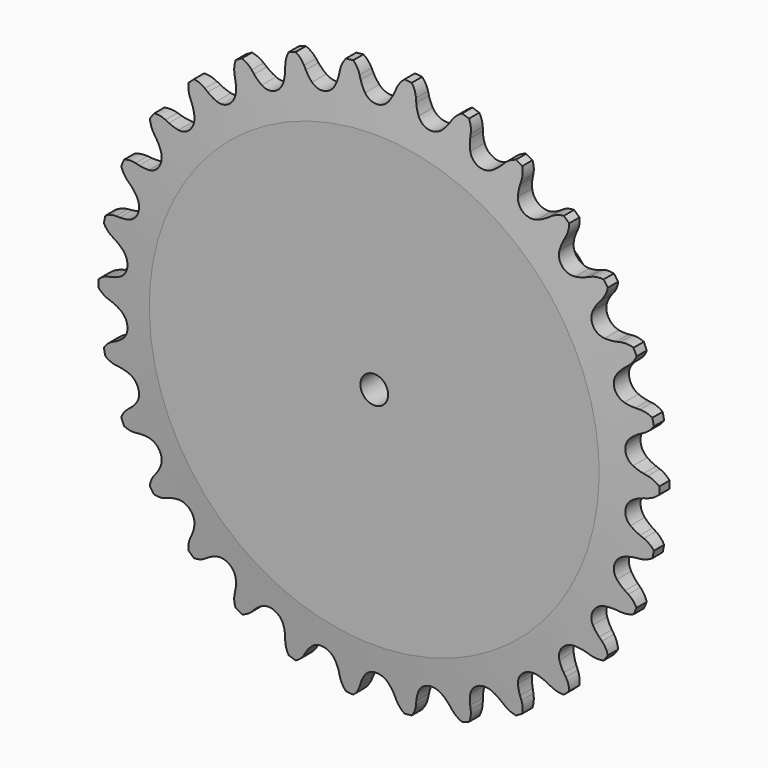
from build123d import *

# Parameters (mm, degrees)
F0_W     = 9.906
F0_H     = 17.4625
F0_W_2   = 2.794
F0_H_2   = 13.0683
F2_R     = 1.5875
F3_SIZE  = 0.79375
F4_SIZE2 = 6.35
F4_SIZE  = 0.6604
F6_DEPTH = 25.4
F7_R     = 1.4112891739
F8_DEPTH = 25.4


with BuildPart() as f1:
    # F0 (on Right) → F1 (revolve)
    with BuildSketch(Plane.YZ):
        with Locations((7.747, 10.31875)):
            Rectangle(F0_W, F0_H)
        with Locations((1.397, 10.31875)):
            Rectangle(F0_W_2, F0_H)
        with Locations((1.397, 25.58415)):
            Rectangle(F0_W_2, F0_H_2)
    revolve(axis=Axis((0, 11.2999993301, 0), (0, 1, 0)))

    # F2
    f2_edges = [f1.edges().sort_by_distance(p)[0] for p in [
        (0, 2.794, -19.05),
    ]]
    fillet(f2_edges, radius=F2_R)

    # F3
    f3_edges = [f1.edges().sort_by_distance(p)[0] for p in [
        (0, 12.7, -19.05),
    ]]
    chamfer(f3_edges, length=F3_SIZE)

    # F4
    f4_edges = [f1.edges().sort_by_distance(p)[0] for p in [
        (0, 0, -32.1183),
        (0, 2.794, -32.1183),
    ]]
    f4_side = f1.faces().sort_by_distance((0, 1.397, -32.1183))[0]
    chamfer(f4_edges, length=F4_SIZE, length2=F4_SIZE2, reference=f4_side)

    # F5 (on face) → F6 (intersect)
    with BuildSketch(Plane.XZ):
        with BuildLine():
            ThreePointArc((-1.3560751097, 29.3527141088), (-1.6882601607, 29.8648861579), (-1.9452878921, 30.4186043725))
            Line((-1.9452878921, 30.4186043725), (-2.1066705887, 30.8419620236))
            ThreePointArc((-2.1066705887, 30.8419620236), (-2.6161236685, 31.6758330036), (-3.3917376991, 32.270228602))
            ThreePointArc((-3.3917376991, 32.270228602), (-4.0268209083, 31.527562749), (-4.3517696906, 30.6059925994))
            Line((-4.3517696906, 30.6059925994), (-4.421604783, 30.1583329794))
            ThreePointArc((-4.421604783, 30.1583329794), (-4.5578913515, 29.5632757661), (-4.7763308055, 28.9932307495))
            ThreePointArc((-4.7763308055, 28.9932307495), (-5.9622003929, 28.0499474872), (-7.4292140354, 28.4293430117))
            ThreePointArc((-7.4292140354, 28.4293430117), (-7.8606266028, 28.861257717), (-8.2271621518, 29.3494367899))
            Line((-8.2271621518, 29.3494367899), (-8.4730392543, 29.7299897112))
            ThreePointArc((-8.4730392543, 29.7299897112), (-9.1447310874, 30.4397173584), (-10.0269778844, 30.8598647624))
            ThreePointArc((-10.0269778844, 30.8598647624), (-10.4937740886, 30.0013867163), (-10.6200167523, 29.0323944347))
            Line((-10.6200167523, 29.0323944347), (-10.5952521119, 28.5799977194))
            ThreePointArc((-10.5952521119, 28.5799977194), (-10.6048411405, 27.9696083629), (-10.6999881451, 27.3666040815))
            ThreePointArc((-10.6999881451, 27.3666040815), (-11.6638240188, 26.1973776706), (-13.1776606585, 26.2634732057))
            ThreePointArc((-13.1776606585, 26.2634732057), (-13.6894459428, 26.5962538221), (-14.1494699472, 26.9975579853))
            Line((-14.1494699472, 26.9975579853), (-14.4690954464, 27.3186741881))
            ThreePointArc((-14.4690954464, 27.3186741881), (-15.2736698765, 27.8732399987), (-16.2239910214, 28.1007767505))
            ThreePointArc((-16.2239910214, 28.1007767505), (-16.5020989864, 27.1640061214), (-16.4241181214, 26.1899413204))
            Line((-16.4241181214, 26.1899413204), (-16.3058360818, 25.752579417))
            ThreePointArc((-16.3058360818, 25.752579417), (-16.188308484, 25.1535348613), (-16.1560046585, 24.5439254956))
            ThreePointArc((-16.1560046585, 24.5439254956), (-16.8556825659, 23.1998567409), (-18.3501802773, 22.9497635946))
            ThreePointArc((-18.3501802773, 22.9497635946), (-18.9199708059, 23.1688660123), (-19.4533780091, 23.4657563481))
            Line((-19.4533780091, 23.4657563481), (-19.832782737, 23.7134015135))
            ThreePointArc((-19.832782737, 23.7134015135), (-20.7350760008, 24.0885683004), (-21.7119378994, 24.1135499522))
            ThreePointArc((-21.7119378994, 24.1135499522), (-21.7892029727, 23.1394281117), (-21.510406717, 22.2028620971))
            Line((-21.510406717, 22.2028620971), (-21.3037767709, 21.7996498195))
            ThreePointArc((-21.3037767709, 21.7996498195), (-21.0642690667, 21.2381311862), (-20.9059262433, 20.6485595907))
            ThreePointArc((-20.9059262433, 20.6485595907), (-21.3108669023, 19.1883907463), (-22.7207089641, 18.6330391892))
            ThreePointArc((-22.7207089641, 18.6330391892), (-23.3236021567, 18.7288875811), (-23.9070801045, 18.9083885573))
            Line((-23.9070801045, 18.9083885573), (-24.3296822538, 19.0717394031))
            ThreePointArc((-24.3296822538, 19.0717394031), (-25.2902598059, 19.2511105776), (-26.2509689057, 19.0724453114))
            ThreePointArc((-26.2509689057, 19.0724453114), (-26.1240142329, 18.1035460581), (-25.6565873206, 17.245411259))
            Line((-25.6565873206, 17.245411259), (-25.3706401882, 16.8939709185))
            ThreePointArc((-25.3706401882, 16.8939709185), (-25.0196200135, 16.3945192663), (-24.7421585334, 15.8507525489))
            ThreePointArc((-24.7421585334, 15.8507525489), (-24.8346640942, 14.3383), (-26.0982336431, 13.50196156))
            ThreePointArc((-26.0982336431, 13.50196156), (-26.7078801742, 13.4703668915), (-27.3159280803, 13.524633454))
            Line((-27.3159280803, 13.524633454), (-27.7632579093, 13.5965507646))
            ThreePointArc((-27.7632579093, 13.5965507646), (-28.7401379014, 13.5722869455), (-29.6427066048, 13.1977832906))
            ThreePointArc((-29.6427066048, 13.1977832906), (-29.3170807142, 12.2764521714), (-28.6814519444, 11.5342531962))
            Line((-28.6814519444, 11.5342531962), (-28.3286848875, 11.2499444221))
            ThreePointArc((-28.3286848875, 11.2499444221), (-27.8814935083, 10.8343881849), (-27.4970397696, 10.3601915603))
            ThreePointArc((-27.4970397696, 10.3601915603), (-27.2730672952, 8.8615567409), (-28.3351402787, 7.780783421))
            ThreePointArc((-28.3351402787, 7.780783421), (-28.9248956694, 7.6231265308), (-29.5309389227, 7.5497869704))
            Line((-29.5309389227, 7.5497869704), (-29.9834459713, 7.5271276141))
            ThreePointArc((-29.9834459713, 7.5271276141), (-30.9339340601, 7.3002892468), (-31.7389157837, 6.7463148101))
            ThreePointArc((-31.7389157837, 6.7463148101), (-31.2288500893, 5.9128184159), (-30.4527994893, 5.3189929213))
            Line((-30.4527994893, 5.3189929213), (-30.048630121, 5.1142413713))
            ThreePointArc((-30.048630121, 5.1142413713), (-29.5248119465, 4.8007423507), (-29.0501684224, 4.4168404869))
            ThreePointArc((-29.0501684224, 4.4168404869), (-28.5195065847, 2.9975209297), (-29.333665317, 1.7195477102))
            ThreePointArc((-29.333665317, 1.7195477102), (-29.8777544269, 1.4427189608), (-30.455306029, 1.2449785683))
            Line((-30.455306029, 1.2449785683), (-30.8932135678, 1.1287328677))
            ThreePointArc((-30.8932135678, 1.1287328677), (-31.7757688629, 0.7092338773), (-32.4479820427, 0))
            ThreePointArc((-32.4479820427, 0), (-31.7757688629, -0.7092338773), (-30.8932135678, -1.1287328677))
            Line((-30.8932135678, -1.1287328677), (-30.455306029, -1.2449785683))
            ThreePointArc((-30.455306029, -1.2449785683), (-29.8777544269, -1.4427189608), (-29.333665317, -1.7195477102))
            ThreePointArc((-29.333665317, -1.7195477102), (-28.5195065847, -2.9975209297), (-29.0501684224, -4.4168404869))
            ThreePointArc((-29.0501684224, -4.4168404869), (-29.5248119465, -4.8007423507), (-30.048630121, -5.1142413713))
            Line((-30.048630121, -5.1142413713), (-30.4527994893, -5.3189929213))
            ThreePointArc((-30.4527994893, -5.3189929213), (-31.2288500893, -5.9128184159), (-31.7389157837, -6.7463148101))
            ThreePointArc((-31.7389157837, -6.7463148101), (-30.9339340601, -7.3002892468), (-29.9834459713, -7.5271276141))
            Line((-29.9834459713, -7.5271276141), (-29.5309389227, -7.5497869704))
            ThreePointArc((-29.5309389227, -7.5497869704), (-28.9248956694, -7.6231265308), (-28.3351402787, -7.780783421))
            ThreePointArc((-28.3351402787, -7.780783421), (-27.2730672952, -8.8615567409), (-27.4970397696, -10.3601915603))
            ThreePointArc((-27.4970397696, -10.3601915603), (-27.8814935083, -10.8343881849), (-28.3286848875, -11.2499444221))
            Line((-28.3286848875, -11.2499444221), (-28.6814519444, -11.5342531962))
            ThreePointArc((-28.6814519444, -11.5342531962), (-29.3170807142, -12.2764521714), (-29.6427066048, -13.1977832906))
            ThreePointArc((-29.6427066048, -13.1977832906), (-28.7401379014, -13.5722869455), (-27.7632579093, -13.5965507646))
            Line((-27.7632579093, -13.5965507646), (-27.3159280803, -13.524633454))
            ThreePointArc((-27.3159280803, -13.524633454), (-26.7078801742, -13.4703668915), (-26.0982336431, -13.50196156))
            ThreePointArc((-26.0982336431, -13.50196156), (-24.8346640942, -14.3383), (-24.7421585334, -15.8507525489))
            ThreePointArc((-24.7421585334, -15.8507525489), (-25.0196200135, -16.3945192663), (-25.3706401882, -16.8939709185))
            Line((-25.3706401882, -16.8939709185), (-25.6565873206, -17.245411259))
            ThreePointArc((-25.6565873206, -17.245411259), (-26.1240142329, -18.1035460581), (-26.2509689057, -19.0724453114))
            ThreePointArc((-26.2509689057, -19.0724453114), (-25.2902598059, -19.2511105776), (-24.3296822538, -19.0717394031))
            Line((-24.3296822538, -19.0717394031), (-23.9070801045, -18.9083885573))
            ThreePointArc((-23.9070801045, -18.9083885573), (-23.3236021567, -18.7288875811), (-22.7207089641, -18.6330391892))
            ThreePointArc((-22.7207089641, -18.6330391892), (-21.3108669023, -19.1883907463), (-20.9059262433, -20.6485595907))
            ThreePointArc((-20.9059262433, -20.6485595907), (-21.0642690667, -21.2381311862), (-21.3037767709, -21.7996498195))
            Line((-21.3037767709, -21.7996498195), (-21.510406717, -22.2028620971))
            ThreePointArc((-21.510406717, -22.2028620971), (-21.7892029727, -23.1394281117), (-21.7119378994, -24.1135499522))
            ThreePointArc((-21.7119378994, -24.1135499522), (-20.7350760008, -24.0885683004), (-19.832782737, -23.7134015135))
            Line((-19.832782737, -23.7134015135), (-19.4533780091, -23.4657563481))
            ThreePointArc((-19.4533780091, -23.4657563481), (-18.9199708059, -23.1688660123), (-18.3501802773, -22.9497635946))
            ThreePointArc((-18.3501802773, -22.9497635946), (-16.8556825659, -23.1998567409), (-16.1560046585, -24.5439254956))
            ThreePointArc((-16.1560046585, -24.5439254956), (-16.188308484, -25.1535348613), (-16.3058360818, -25.752579417))
            Line((-16.3058360818, -25.752579417), (-16.4241181214, -26.1899413204))
            ThreePointArc((-16.4241181214, -26.1899413204), (-16.5020989864, -27.1640061214), (-16.2239910214, -28.1007767505))
            ThreePointArc((-16.2239910214, -28.1007767505), (-15.2736698765, -27.8732399987), (-14.4690954464, -27.3186741881))
            Line((-14.4690954464, -27.3186741881), (-14.1494699472, -26.9975579853))
            ThreePointArc((-14.1494699472, -26.9975579853), (-13.6894459428, -26.5962538221), (-13.1776606585, -26.2634732057))
            ThreePointArc((-13.1776606585, -26.2634732057), (-11.6638240188, -26.1973776706), (-10.6999881451, -27.3666040815))
            ThreePointArc((-10.6999881451, -27.3666040815), (-10.6048411405, -27.9696083629), (-10.5952521119, -28.5799977194))
            Line((-10.5952521119, -28.5799977194), (-10.6200167523, -29.0323944347))
            ThreePointArc((-10.6200167523, -29.0323944347), (-10.4937740886, -30.0013867163), (-10.0269778844, -30.8598647624))
            ThreePointArc((-10.0269778844, -30.8598647624), (-9.1447310874, -30.4397173584), (-8.4730392543, -29.7299897112))
            Line((-8.4730392543, -29.7299897112), (-8.2271621518, -29.3494367899))
            ThreePointArc((-8.2271621518, -29.3494367899), (-7.8606266028, -28.861257717), (-7.4292140354, -28.4293430117))
            ThreePointArc((-7.4292140354, -28.4293430117), (-5.9622003929, -28.0499474872), (-4.7763308055, -28.9932307495))
            ThreePointArc((-4.7763308055, -28.9932307495), (-4.5578913515, -29.5632757661), (-4.421604783, -30.1583329794))
            Line((-4.421604783, -30.1583329794), (-4.3517696906, -30.6059925994))
            ThreePointArc((-4.3517696906, -30.6059925994), (-4.0268209083, -31.527562749), (-3.3917376991, -32.270228602))
            ThreePointArc((-3.3917376991, -32.270228602), (-2.6161236685, -31.6758330036), (-2.1066705887, -30.8419620236))
            Line((-2.1066705887, -30.8419620236), (-1.9452878921, -30.4186043725))
            ThreePointArc((-1.9452878921, -30.4186043725), (-1.6882601607, -29.8648861579), (-1.3560751097, -29.3527141088))
            ThreePointArc((-1.3560751097, -29.3527141088), (0, -28.6766), (1.3560751097, -29.3527141088))
            ThreePointArc((1.3560751097, -29.3527141088), (1.6882601607, -29.8648861579), (1.9452878921, -30.4186043725))
            Line((1.9452878921, -30.4186043725), (2.1066705887, -30.8419620236))
            ThreePointArc((2.1066705887, -30.8419620236), (2.6161236685, -31.6758330036), (3.3917376991, -32.270228602))
            ThreePointArc((3.3917376991, -32.270228602), (4.0268209083, -31.527562749), (4.3517696906, -30.6059925994))
            Line((4.3517696906, -30.6059925994), (4.421604783, -30.1583329794))
            ThreePointArc((4.421604783, -30.1583329794), (4.5578913515, -29.5632757661), (4.7763308055, -28.9932307495))
            ThreePointArc((4.7763308055, -28.9932307495), (5.9622003929, -28.0499474872), (7.4292140354, -28.4293430117))
            ThreePointArc((7.4292140354, -28.4293430117), (7.8606266028, -28.861257717), (8.2271621518, -29.3494367899))
            Line((8.2271621518, -29.3494367899), (8.4730392543, -29.7299897112))
            ThreePointArc((8.4730392543, -29.7299897112), (9.1447310874, -30.4397173584), (10.0269778844, -30.8598647624))
            ThreePointArc((10.0269778844, -30.8598647624), (10.4937740886, -30.0013867163), (10.6200167523, -29.0323944347))
            Line((10.6200167523, -29.0323944347), (10.5952521119, -28.5799977194))
            ThreePointArc((10.5952521119, -28.5799977194), (10.6048411405, -27.9696083629), (10.6999881451, -27.3666040815))
            ThreePointArc((10.6999881451, -27.3666040815), (11.6638240188, -26.1973776706), (13.1776606585, -26.2634732057))
            ThreePointArc((13.1776606585, -26.2634732057), (13.6894459428, -26.5962538221), (14.1494699472, -26.9975579853))
            Line((14.1494699472, -26.9975579853), (14.4690954464, -27.3186741881))
            ThreePointArc((14.4690954464, -27.3186741881), (15.2736698765, -27.8732399987), (16.2239910214, -28.1007767505))
            ThreePointArc((16.2239910214, -28.1007767505), (16.5020989864, -27.1640061214), (16.4241181214, -26.1899413204))
            Line((16.4241181214, -26.1899413204), (16.3058360818, -25.752579417))
            ThreePointArc((16.3058360818, -25.752579417), (16.188308484, -25.1535348613), (16.1560046585, -24.5439254956))
            ThreePointArc((16.1560046585, -24.5439254956), (16.8556825659, -23.1998567409), (18.3501802773, -22.9497635946))
            ThreePointArc((18.3501802773, -22.9497635946), (18.9199708059, -23.1688660123), (19.4533780091, -23.4657563481))
            Line((19.4533780091, -23.4657563481), (19.832782737, -23.7134015135))
            ThreePointArc((19.832782737, -23.7134015135), (20.7350760008, -24.0885683004), (21.7119378994, -24.1135499522))
            ThreePointArc((21.7119378994, -24.1135499522), (21.7892029727, -23.1394281117), (21.510406717, -22.2028620971))
            Line((21.510406717, -22.2028620971), (21.3037767709, -21.7996498195))
            ThreePointArc((21.3037767709, -21.7996498195), (21.0642690667, -21.2381311862), (20.9059262433, -20.6485595907))
            ThreePointArc((20.9059262433, -20.6485595907), (21.3108669023, -19.1883907463), (22.7207089641, -18.6330391892))
            ThreePointArc((22.7207089641, -18.6330391892), (23.3236021567, -18.7288875811), (23.9070801045, -18.9083885573))
            Line((23.9070801045, -18.9083885573), (24.3296822538, -19.0717394031))
            ThreePointArc((24.3296822538, -19.0717394031), (25.2902598059, -19.2511105776), (26.2509689057, -19.0724453114))
            ThreePointArc((26.2509689057, -19.0724453114), (26.1240142329, -18.1035460581), (25.6565873206, -17.245411259))
            Line((25.6565873206, -17.245411259), (25.3706401882, -16.8939709185))
            ThreePointArc((25.3706401882, -16.8939709185), (25.0196200135, -16.3945192663), (24.7421585334, -15.8507525489))
            ThreePointArc((24.7421585334, -15.8507525489), (24.8346640942, -14.3383), (26.0982336431, -13.50196156))
            ThreePointArc((26.0982336431, -13.50196156), (26.7078801742, -13.4703668915), (27.3159280803, -13.524633454))
            Line((27.3159280803, -13.524633454), (27.7632579093, -13.5965507646))
            ThreePointArc((27.7632579093, -13.5965507646), (28.7401379014, -13.5722869455), (29.6427066048, -13.1977832906))
            ThreePointArc((29.6427066048, -13.1977832906), (29.3170807142, -12.2764521714), (28.6814519444, -11.5342531962))
            Line((28.6814519444, -11.5342531962), (28.3286848875, -11.2499444221))
            ThreePointArc((28.3286848875, -11.2499444221), (27.8814935083, -10.8343881849), (27.4970397696, -10.3601915603))
            ThreePointArc((27.4970397696, -10.3601915603), (27.2730672952, -8.8615567409), (28.3351402787, -7.780783421))
            ThreePointArc((28.3351402787, -7.780783421), (28.9248956694, -7.6231265308), (29.5309389227, -7.5497869704))
            Line((29.5309389227, -7.5497869704), (29.9834459713, -7.5271276141))
            ThreePointArc((29.9834459713, -7.5271276141), (30.9339340601, -7.3002892468), (31.7389157837, -6.7463148101))
            ThreePointArc((31.7389157837, -6.7463148101), (31.2288500893, -5.9128184159), (30.4527994893, -5.3189929213))
            Line((30.4527994893, -5.3189929213), (30.048630121, -5.1142413713))
            ThreePointArc((30.048630121, -5.1142413713), (29.5248119465, -4.8007423507), (29.0501684224, -4.4168404869))
            ThreePointArc((29.0501684224, -4.4168404869), (28.5195065847, -2.9975209297), (29.333665317, -1.7195477102))
            ThreePointArc((29.333665317, -1.7195477102), (29.8777544269, -1.4427189608), (30.455306029, -1.2449785683))
            Line((30.455306029, -1.2449785683), (30.8932135678, -1.1287328677))
            ThreePointArc((30.8932135678, -1.1287328677), (31.7757688629, -0.7092338773), (32.4479820427, 0))
            ThreePointArc((32.4479820427, 0), (31.7757688629, 0.7092338773), (30.8932135678, 1.1287328677))
            Line((30.8932135678, 1.1287328677), (30.455306029, 1.2449785683))
            ThreePointArc((30.455306029, 1.2449785683), (29.8777544269, 1.4427189608), (29.333665317, 1.7195477102))
            ThreePointArc((29.333665317, 1.7195477102), (28.5195065847, 2.9975209297), (29.0501684224, 4.4168404869))
            ThreePointArc((29.0501684224, 4.4168404869), (29.5248119465, 4.8007423507), (30.048630121, 5.1142413713))
            Line((30.048630121, 5.1142413713), (30.4527994893, 5.3189929213))
            ThreePointArc((30.4527994893, 5.3189929213), (31.2288500893, 5.9128184159), (31.7389157837, 6.7463148101))
            ThreePointArc((31.7389157837, 6.7463148101), (30.9339340601, 7.3002892468), (29.9834459713, 7.5271276141))
            Line((29.9834459713, 7.5271276141), (29.5309389227, 7.5497869704))
            ThreePointArc((29.5309389227, 7.5497869704), (28.9248956694, 7.6231265308), (28.3351402787, 7.780783421))
            ThreePointArc((28.3351402787, 7.780783421), (27.2730672952, 8.8615567409), (27.4970397696, 10.3601915603))
            ThreePointArc((27.4970397696, 10.3601915603), (27.8814935083, 10.8343881849), (28.3286848875, 11.2499444221))
            Line((28.3286848875, 11.2499444221), (28.6814519444, 11.5342531962))
            ThreePointArc((28.6814519444, 11.5342531962), (29.3170807142, 12.2764521714), (29.6427066048, 13.1977832906))
            ThreePointArc((29.6427066048, 13.1977832906), (28.7401379014, 13.5722869455), (27.7632579093, 13.5965507646))
            Line((27.7632579093, 13.5965507646), (27.3159280803, 13.524633454))
            ThreePointArc((27.3159280803, 13.524633454), (26.7078801742, 13.4703668915), (26.0982336431, 13.50196156))
            ThreePointArc((26.0982336431, 13.50196156), (24.8346640942, 14.3383), (24.7421585334, 15.8507525489))
            ThreePointArc((24.7421585334, 15.8507525489), (25.0196200135, 16.3945192663), (25.3706401882, 16.8939709185))
            Line((25.3706401882, 16.8939709185), (25.6565873206, 17.245411259))
            ThreePointArc((25.6565873206, 17.245411259), (26.1240142329, 18.1035460581), (26.2509689057, 19.0724453114))
            ThreePointArc((26.2509689057, 19.0724453114), (25.2902598059, 19.2511105776), (24.3296822538, 19.0717394031))
            Line((24.3296822538, 19.0717394031), (23.9070801045, 18.9083885573))
            ThreePointArc((23.9070801045, 18.9083885573), (23.3236021567, 18.7288875811), (22.7207089641, 18.6330391892))
            ThreePointArc((22.7207089641, 18.6330391892), (21.3108669023, 19.1883907463), (20.9059262433, 20.6485595907))
            ThreePointArc((20.9059262433, 20.6485595907), (21.0642690667, 21.2381311862), (21.3037767709, 21.7996498195))
            Line((21.3037767709, 21.7996498195), (21.510406717, 22.2028620971))
            ThreePointArc((21.510406717, 22.2028620971), (21.7892029727, 23.1394281117), (21.7119378994, 24.1135499522))
            ThreePointArc((21.7119378994, 24.1135499522), (20.7350760008, 24.0885683004), (19.832782737, 23.7134015135))
            Line((19.832782737, 23.7134015135), (19.4533780091, 23.4657563481))
            ThreePointArc((19.4533780091, 23.4657563481), (18.9199708059, 23.1688660123), (18.3501802773, 22.9497635946))
            ThreePointArc((18.3501802773, 22.9497635946), (16.8556825659, 23.1998567409), (16.1560046585, 24.5439254956))
            ThreePointArc((16.1560046585, 24.5439254956), (16.188308484, 25.1535348613), (16.3058360818, 25.752579417))
            Line((16.3058360818, 25.752579417), (16.4241181214, 26.1899413204))
            ThreePointArc((16.4241181214, 26.1899413204), (16.5020989864, 27.1640061214), (16.2239910214, 28.1007767505))
            ThreePointArc((16.2239910214, 28.1007767505), (15.2736698765, 27.8732399987), (14.4690954464, 27.3186741881))
            Line((14.4690954464, 27.3186741881), (14.1494699472, 26.9975579853))
            ThreePointArc((14.1494699472, 26.9975579853), (13.6894459428, 26.5962538221), (13.1776606585, 26.2634732057))
            ThreePointArc((13.1776606585, 26.2634732057), (11.6638240188, 26.1973776706), (10.6999881451, 27.3666040815))
            ThreePointArc((10.6999881451, 27.3666040815), (10.6048411405, 27.9696083629), (10.5952521119, 28.5799977194))
            Line((10.5952521119, 28.5799977194), (10.6200167523, 29.0323944347))
            ThreePointArc((10.6200167523, 29.0323944347), (10.4937740886, 30.0013867163), (10.0269778844, 30.8598647624))
            ThreePointArc((10.0269778844, 30.8598647624), (9.1447310874, 30.4397173584), (8.4730392543, 29.7299897112))
            Line((8.4730392543, 29.7299897112), (8.2271621518, 29.3494367899))
            ThreePointArc((8.2271621518, 29.3494367899), (7.8606266028, 28.861257717), (7.4292140354, 28.4293430117))
            ThreePointArc((7.4292140354, 28.4293430117), (5.9622003929, 28.0499474872), (4.7763308055, 28.9932307495))
            ThreePointArc((4.7763308055, 28.9932307495), (4.5578913515, 29.5632757661), (4.421604783, 30.1583329794))
            Line((4.421604783, 30.1583329794), (4.3517696906, 30.6059925994))
            ThreePointArc((4.3517696906, 30.6059925994), (4.0268209083, 31.527562749), (3.3917376991, 32.270228602))
            ThreePointArc((3.3917376991, 32.270228602), (2.6161236685, 31.6758330036), (2.1066705887, 30.8419620236))
            Line((2.1066705887, 30.8419620236), (1.9452878921, 30.4186043725))
            ThreePointArc((1.9452878921, 30.4186043725), (1.6882601607, 29.8648861579), (1.3560751097, 29.3527141088))
            ThreePointArc((1.3560751097, 29.3527141088), (0, 28.6766), (-1.3560751097, 29.3527141088))
        make_face()
    extrude(amount=-F6_DEPTH, mode=Mode.INTERSECT)

    # F7 (on Right) → F8 (cut)
    with BuildSketch(Plane.YZ):
        with Locations((8.3587830886, 0)):
            Circle(F7_R)
    extrude(amount=F8_DEPTH, mode=Mode.SUBTRACT)


solid = f1.part
